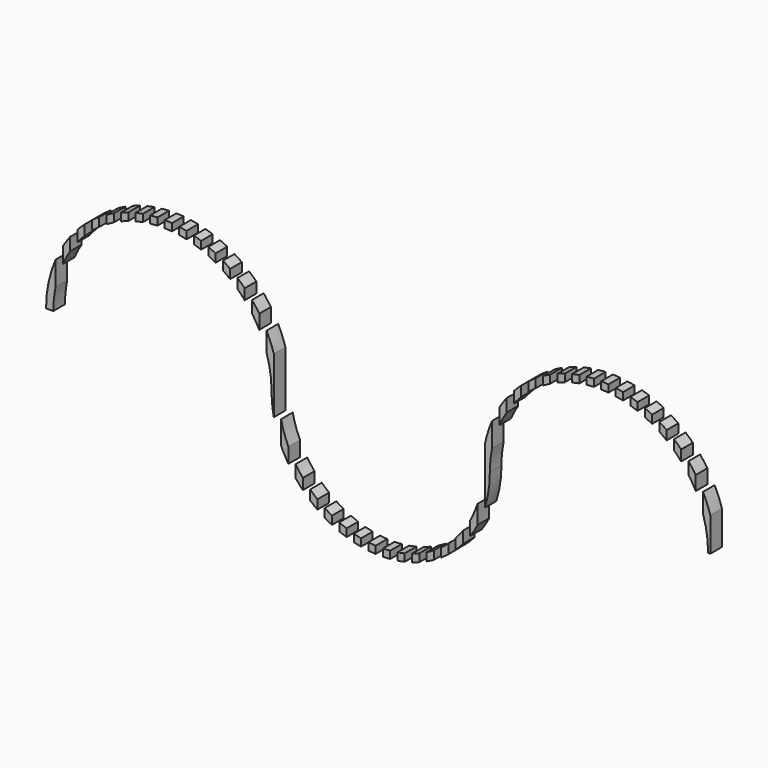
from build123d import *

# Parameters (mm, degrees)
F1_DEPTH = 2
F2_W     = 1
F2_H     = 34.06351
F3_DEPTH = 25


with BuildPart() as f1:
    # F0 (on Front) → F1 (new body)
    with BuildSketch(Plane.XZ):
        with BuildLine():
            ThreePointArc((-45, 0), (-30, -15), (-15, 0))
            ThreePointArc((-15, 0), (0, 15), (15, 0))
            Line((15, 0), (16, 0))
            ThreePointArc((16, 0), (0, 16), (-16, 0))
            ThreePointArc((-16, 0), (-30, -14), (-44, 0))
            ThreePointArc((-44, 0), (-60, 16), (-76, 0))
            Line((-76, 0), (-75, 0))
            ThreePointArc((-75, 0), (-60, 15), (-45, 0))
        make_face()
    extrude(amount=F1_DEPTH)

    # F2 (on Front) → F3 (cut)
    with BuildSketch(Plane.XZ):
        with Locations((-74.19698, 0.98286)):
            Rectangle(F2_W, F2_H)
        with Locations((-72.19698, 0.98286)):
            Rectangle(F2_W, F2_H)
        with Locations((-70.19698, 0.98286)):
            Rectangle(F2_W, F2_H)
        with Locations((-68.19698, 0.98286)):
            Rectangle(F2_W, F2_H)
        with Locations((-66.19698, 0.98286)):
            Rectangle(F2_W, F2_H)
        with Locations((-64.19698, 0.98286)):
            Rectangle(F2_W, F2_H)
        with Locations((-62.19698, 0.98286)):
            Rectangle(F2_W, F2_H)
        with Locations((-60.19698, 0.98286)):
            Rectangle(F2_W, F2_H)
        with Locations((-58.19698, 0.98286)):
            Rectangle(F2_W, F2_H)
        with Locations((-56.19698, 0.98286)):
            Rectangle(F2_W, F2_H)
        with Locations((-54.19698, 0.98286)):
            Rectangle(F2_W, F2_H)
        with Locations((-52.19698, 0.98286)):
            Rectangle(F2_W, F2_H)
        with Locations((-50.19698, 0.98286)):
            Rectangle(F2_W, F2_H)
        with Locations((-48.19698, 0.98286)):
            Rectangle(F2_W, F2_H)
        with Locations((-46.19698, 0.98286)):
            Rectangle(F2_W, F2_H)
        with Locations((-44.19698, 0.98286)):
            Rectangle(F2_W, F2_H)
        with Locations((-42.19698, 0.98286)):
            Rectangle(F2_W, F2_H)
        with Locations((-40.19698, 0.98286)):
            Rectangle(F2_W, F2_H)
        with Locations((-38.19698, 0.98286)):
            Rectangle(F2_W, F2_H)
        with Locations((-36.19698, 0.98286)):
            Rectangle(F2_W, F2_H)
        with Locations((-34.19698, 0.98286)):
            Rectangle(F2_W, F2_H)
        with Locations((-32.19698, 0.98286)):
            Rectangle(F2_W, F2_H)
        with Locations((-30.19698, 0.98286)):
            Rectangle(F2_W, F2_H)
        with Locations((-28.19698, 0.98286)):
            Rectangle(F2_W, F2_H)
        with Locations((-26.19698, 0.98286)):
            Rectangle(F2_W, F2_H)
        with Locations((-24.19698, 0.98286)):
            Rectangle(F2_W, F2_H)
        with Locations((-22.19698, 0.98286)):
            Rectangle(F2_W, F2_H)
        with Locations((-20.19698, 0.98286)):
            Rectangle(F2_W, F2_H)
        with Locations((-18.19698, 0.98286)):
            Rectangle(F2_W, F2_H)
        with Locations((-16.19698, 0.98286)):
            Rectangle(F2_W, F2_H)
        with Locations((-14.19698, 0.98286)):
            Rectangle(F2_W, F2_H)
        with Locations((-12.19698, 0.98286)):
            Rectangle(F2_W, F2_H)
        with Locations((-10.19698, 0.98286)):
            Rectangle(F2_W, F2_H)
        with Locations((-8.19698, 0.98286)):
            Rectangle(F2_W, F2_H)
        with Locations((-6.19698, 0.98286)):
            Rectangle(F2_W, F2_H)
        with Locations((-4.19698, 0.98286)):
            Rectangle(F2_W, F2_H)
        with Locations((-2.19698, 0.98286)):
            Rectangle(F2_W, F2_H)
        with Locations((-0.19698, 0.98286)):
            Rectangle(F2_W, F2_H)
        with Locations((1.80302, 0.98286)):
            Rectangle(F2_W, F2_H)
        with Locations((3.80302, 0.98286)):
            Rectangle(F2_W, F2_H)
        with Locations((5.80302, 0.98286)):
            Rectangle(F2_W, F2_H)
        with Locations((7.80302, 0.98286)):
            Rectangle(F2_W, F2_H)
        with Locations((9.80302, 0.98286)):
            Rectangle(F2_W, F2_H)
        with Locations((11.80302, 0.98286)):
            Rectangle(F2_W, F2_H)
        with Locations((13.80302, 0.98286)):
            Rectangle(F2_W, F2_H)
        with Locations((15.80302, 0.98286)):
            Rectangle(F2_W, F2_H)
    extrude(amount=F3_DEPTH, mode=Mode.SUBTRACT)


solid = f1.part
